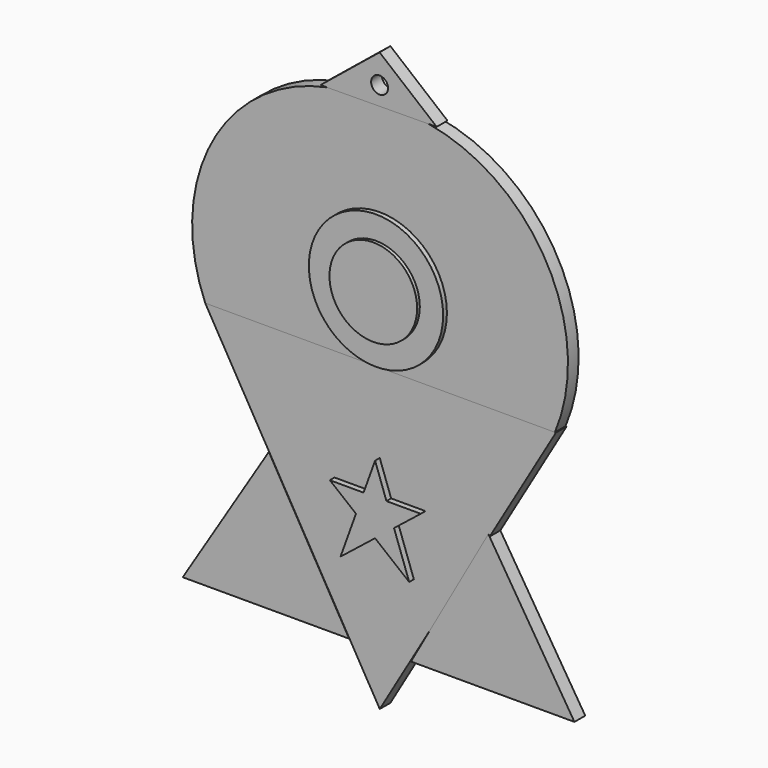
from build123d import *

# Parameters (mm, degrees)
F2_DEPTH  = 3
F4_DEPTH  = 4.318
F5_R      = 15.1568137204
F6_DEPTH  = 4.064
F7_R      = 9.8939335947
F8_DEPTH  = 0.762
F10_DEPTH = 3.048
F12_D     = 3.81
F14_DEPTH = 3.048
F16_DEPTH = 3.048


with BuildPart() as f2:
    # F1 (on Front) → F2 (new body)
    with BuildSketch(Plane.XZ):
        with BuildLine():
            ThreePointArc((39.5367741585, 0), (34.8157606117, 37.5240725454), (0, 52.295897156))
            ThreePointArc((0, 52.295897156), (-34.7183461772, 37.4629931389), (-39.3983833492, 0))
            Line((-39.3983833492, 0), (0, 0))
            Line((0, 0), (39.5367741585, 0))
        make_face()
    extrude(amount=F2_DEPTH)

    # F5 (on Front) → F6 (join)
    with BuildSketch(Plane.XZ):
        with Locations((0, 15.737760812)):
            Circle(F5_R)
    extrude(amount=F6_DEPTH)

    # F7 (on face) → F8 (join)
    with BuildSketch(Plane.XZ.offset(4.064)):
        with Locations((0, 15.737760812)):
            Circle(F7_R)
    extrude(amount=F8_DEPTH)

    # F9 (on Front) → F10 (join)
    with BuildSketch(Plane.XZ):
        Polygon((0, 62.6653730869), (-13.3413514122, 51.8284849823), (12.8839174286, 52.0452223718), align=None)
    extrude(amount=F10_DEPTH)

    # F12 (through all)
    with Locations(Plane(origin=(0, 0, 0), x_dir=(1, 0, 0), z_dir=(0, 1, 0))):
        with Locations((0, -56.1632402241)):
            Hole(F12_D / 2)


with BuildPart() as f2b:
    # F0 (on Front) → F2, piece 2 (new body)
    with BuildSketch(Plane.XZ):
        Polygon((0, 0), (-39.399780333, 0), (0, -67.8450912237), (39.7629104555, 0), align=None)
    extrude(amount=F2_DEPTH)

    # F3 (on Front) → F4 (join)
    with BuildSketch(Plane.XZ):
        Polygon((-4.313995767, -29.9023091474), (-7.8045227565, -39.5683832467), (-0.0076074885, -33.3684265614), align=None)
        Polygon((-10.2059142664, -25.1600332558), (-4.313995767, -29.9023091474), (-2.6015071371, -25.1600332558), align=None)
        Polygon((-2.6015071371, -25.1600332558), (-4.313995767, -29.9023091474), (-0.0076074885, -33.3684265614), (4.2752047691, -29.9628168329), (2.5651225434, -25.1600332558), align=None)
        Polygon((4.2752047691, -29.9628168329), (-0.0076074885, -33.3684265614), (7.6953689568, -39.5683832467), align=None)
        Polygon((0, -17.955860123), (-2.6015071371, -25.1600332558), (2.5651225434, -25.1600332558), align=None)
        Polygon((2.5651225434, -25.1600332558), (4.2752047691, -29.9628168329), (10.3150689974, -25.1600332558), align=None)
    extrude(amount=F4_DEPTH)

    # F13 (on Front) → F14 (join)
    with BuildSketch(Plane.XZ):
        Polygon((43.9842157066, -56.084934622), (24.5547723025, -25.0851511955), (7.0901075378, -56.084934622), align=None)
    extrude(amount=F14_DEPTH)


with BuildPart() as f16:
    # F15 (on Front) → F16 (new body)
    with BuildSketch(Plane.XZ):
        Polygon((-6.8816258572, -56.084934622), (-25.0012166798, -24.8668435961), (-44.4306582212, -56.084934622), align=None)
    extrude(amount=F16_DEPTH)


solid = Compound([f2.part, f2b.part, f16.part])
